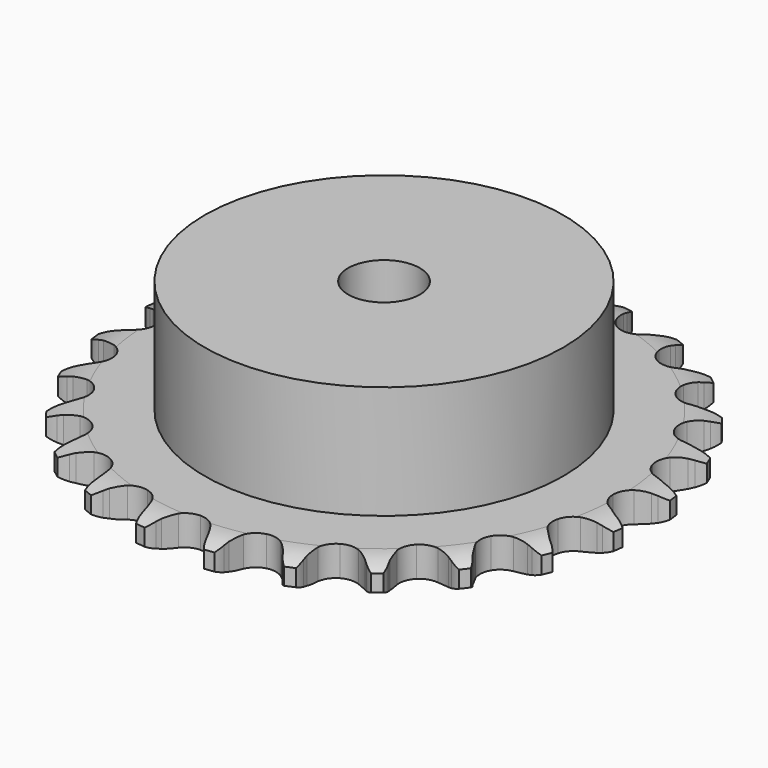
from build123d import *

# Parameters (mm, degrees)
PAD_DEPTH         = 5.9
SKETCH001_R       = 35
PAD001_DEPTH      = 28
SKETCH002_R       = 7
POCKET_DEPTH      = 0.001
POCKET_DEPTH_BACK = 28.001


with BuildPart() as part:
    # Sprocket → Pad (new body)
    with BuildSketch(Plane.XY):
        with BuildLine():
            ThreePointArc((-6.880361, 52.261529), (-5.693033, 51.063167), (-4.863176, 49.594441))
            Line((-4.863176, 49.594441), (-4.486878, 48.655213))
            ThreePointArc((-4.486878, 48.655213), (-3.885516, 47.408459), (-3.119842, 46.255301))
            ThreePointArc((-3.119842, 46.255301), (-1.739289, 45.12231), (0, 44.716765))
            ThreePointArc((0, 44.716765), (1.739289, 45.12231), (3.119842, 46.255301))
            ThreePointArc((3.119842, 46.255301), (3.885516, 47.408459), (4.486878, 48.655213))
            Line((4.486878, 48.655213), (4.863176, 49.594441))
            ThreePointArc((4.863176, 49.594441), (5.693033, 51.063167), (6.880361, 52.261529))
            ThreePointArc((6.880361, 52.261529), (7.717073, 50.796697), (8.138518, 49.163234))
            Line((8.138518, 49.163234), (8.258904, 48.158616))
            ThreePointArc((8.258904, 48.158616), (8.517092, 46.798701), (8.958217, 45.486664))
            ThreePointArc((8.958217, 45.486664), (9.998489, 44.034966), (11.57355, 43.193078))
            ThreePointArc((11.57355, 43.193078), (13.358538, 43.134643), (14.985289, 43.871715))
            Line((14.985289, 43.871715), (16.926887, 45.836037))
            ThreePointArc((16.926887, 45.836037), (17.220055, 46.248529), (17.533454, 46.645869))
            ThreePointArc((17.533454, 46.645869), (18.715168, 47.849766), (20.172197, 48.699992))
            ThreePointArc((20.172197, 48.699992), (20.601272, 47.068516), (20.585586, 45.381634))
            Line((20.585586, 45.381634), (20.441856, 44.380089))
            ThreePointArc((20.441856, 44.380089), (20.339274, 42.999688), (20.425788, 41.618186))
            ThreePointArc((20.425788, 41.618186), (21.054886, 39.946711), (22.358382, 38.725854))
            ThreePointArc((22.358382, 38.725854), (24.067424, 38.207422), (25.829513, 38.498344))
            Line((25.829513, 38.498344), (28.213357, 39.893211))
            ThreePointArc((28.213357, 39.893211), (28.603296, 40.21577), (29.008855, 40.518457))
            ThreePointArc((29.008855, 40.518457), (30.461895, 41.375483), (32.089332, 41.819631))
            ThreePointArc((32.089332, 41.819631), (32.081529, 40.132694), (31.62978, 38.50735))
            Line((31.62978, 38.50735), (31.231729, 37.577133))
            ThreePointArc((31.231729, 37.577133), (30.775369, 36.270317), (30.501375, 34.913498))
            ThreePointArc((30.501375, 34.913498), (30.676428, 33.136155), (31.619527, 31.619527))
            ThreePointArc((31.619527, 31.619527), (33.136155, 30.676428), (34.913498, 30.501375))
            Line((34.913498, 30.501375), (37.577133, 31.231729))
            ThreePointArc((37.577133, 31.231729), (38.03727, 31.442373), (38.50735, 31.62978))
            ThreePointArc((38.50735, 31.62978), (40.132694, 32.081529), (41.819631, 32.089332))
            ThreePointArc((41.819631, 32.089332), (41.375483, 30.461895), (40.518457, 29.008855))
            Line((40.518457, 29.008855), (39.893211, 28.213357))
            ThreePointArc((39.893211, 28.213357), (39.114172, 27.069185), (38.498344, 25.829513))
            ThreePointArc((38.498344, 25.829513), (38.207422, 24.067424), (38.725854, 22.358382))
            ThreePointArc((38.725854, 22.358382), (39.946711, 21.054886), (41.618186, 20.425788))
            Line((41.618186, 20.425788), (44.380089, 20.441856))
            ThreePointArc((44.380089, 20.441856), (44.879066, 20.52623), (45.381634, 20.585586))
            ThreePointArc((45.381634, 20.585586), (47.068516, 20.601272), (48.699992, 20.172197))
            ThreePointArc((48.699992, 20.172197), (47.849766, 18.715168), (46.645869, 17.533454))
            Line((46.645869, 17.533454), (45.836037, 16.926887))
            ThreePointArc((45.836037, 16.926887), (44.78741, 16.023332), (43.871715, 14.985289))
            ThreePointArc((43.871715, 14.985289), (43.134643, 13.358538), (43.193078, 11.57355))
            ThreePointArc((43.193078, 11.57355), (44.034966, 9.998489), (45.486664, 8.958217))
            Line((45.486664, 8.958217), (48.158616, 8.258904))
            ThreePointArc((48.158616, 8.258904), (48.662428, 8.211259), (49.163234, 8.138518))
            ThreePointArc((49.163234, 8.138518), (50.796697, 7.717073), (52.261529, 6.880361))
            ThreePointArc((52.261529, 6.880361), (51.063167, 5.693033), (49.594441, 4.863176))
            Line((49.594441, 4.863176), (48.655213, 4.486878))
            ThreePointArc((48.655213, 4.486878), (47.408459, 3.885516), (46.255301, 3.119842))
            ThreePointArc((46.255301, 3.119842), (45.12231, 1.739289), (44.716765, 0))
            ThreePointArc((44.716765, 0), (45.12231, -1.739289), (46.255301, -3.119842))
            Line((46.255301, -3.119842), (48.655213, -4.486878))
            ThreePointArc((48.655213, -4.486878), (49.129527, -4.663296), (49.594441, -4.863176))
            ThreePointArc((49.594441, -4.863176), (51.063167, -5.693033), (52.261529, -6.880361))
            ThreePointArc((52.261529, -6.880361), (50.796697, -7.717073), (49.163234, -8.138518))
            Line((49.163234, -8.138518), (48.158616, -8.258904))
            ThreePointArc((48.158616, -8.258904), (46.798701, -8.517092), (45.486664, -8.958217))
            ThreePointArc((45.486664, -8.958217), (44.034966, -9.998489), (43.193078, -11.57355))
            ThreePointArc((43.193078, -11.57355), (43.134643, -13.358538), (43.871715, -14.985289))
            Line((43.871715, -14.985289), (45.836037, -16.926887))
            ThreePointArc((45.836037, -16.926887), (46.248529, -17.220055), (46.645869, -17.533454))
            ThreePointArc((46.645869, -17.533454), (47.849766, -18.715168), (48.699992, -20.172197))
            ThreePointArc((48.699992, -20.172197), (47.068516, -20.601272), (45.381634, -20.585586))
            Line((45.381634, -20.585586), (44.380089, -20.441856))
            ThreePointArc((44.380089, -20.441856), (42.999688, -20.339274), (41.618186, -20.425788))
            ThreePointArc((41.618186, -20.425788), (39.946711, -21.054886), (38.725854, -22.358382))
            ThreePointArc((38.725854, -22.358382), (38.207422, -24.067424), (38.498344, -25.829513))
            Line((38.498344, -25.829513), (39.893211, -28.213357))
            ThreePointArc((39.893211, -28.213357), (40.21577, -28.603296), (40.518457, -29.008855))
            ThreePointArc((40.518457, -29.008855), (41.375483, -30.461895), (41.819631, -32.089332))
            ThreePointArc((41.819631, -32.089332), (40.132694, -32.081529), (38.50735, -31.62978))
            Line((38.50735, -31.62978), (37.577133, -31.231729))
            ThreePointArc((37.577133, -31.231729), (36.270317, -30.775369), (34.913498, -30.501375))
            ThreePointArc((34.913498, -30.501375), (33.136155, -30.676428), (31.619527, -31.619527))
            ThreePointArc((31.619527, -31.619527), (30.676428, -33.136155), (30.501375, -34.913498))
            Line((30.501375, -34.913498), (31.231729, -37.577133))
            ThreePointArc((31.231729, -37.577133), (31.442373, -38.03727), (31.62978, -38.50735))
            ThreePointArc((31.62978, -38.50735), (32.081529, -40.132694), (32.089332, -41.819631))
            ThreePointArc((32.089332, -41.819631), (30.461895, -41.375483), (29.008855, -40.518457))
            Line((29.008855, -40.518457), (28.213357, -39.893211))
            ThreePointArc((28.213357, -39.893211), (27.069185, -39.114172), (25.829513, -38.498344))
            ThreePointArc((25.829513, -38.498344), (24.067424, -38.207422), (22.358382, -38.725854))
            ThreePointArc((22.358382, -38.725854), (21.054886, -39.946711), (20.425788, -41.618186))
            Line((20.425788, -41.618186), (20.441856, -44.380089))
            ThreePointArc((20.441856, -44.380089), (20.52623, -44.879066), (20.585586, -45.381634))
            ThreePointArc((20.585586, -45.381634), (20.601272, -47.068516), (20.172197, -48.699992))
            ThreePointArc((20.172197, -48.699992), (18.715168, -47.849766), (17.533454, -46.645869))
            Line((17.533454, -46.645869), (16.926887, -45.836037))
            ThreePointArc((16.926887, -45.836037), (16.023332, -44.78741), (14.985289, -43.871715))
            ThreePointArc((14.985289, -43.871715), (13.358538, -43.134643), (11.57355, -43.193078))
            ThreePointArc((11.57355, -43.193078), (9.998489, -44.034966), (8.958217, -45.486664))
            Line((8.958217, -45.486664), (8.258904, -48.158616))
            ThreePointArc((8.258904, -48.158616), (8.211259, -48.662428), (8.138518, -49.163234))
            ThreePointArc((8.138518, -49.163234), (7.717073, -50.796697), (6.880361, -52.261529))
            ThreePointArc((6.880361, -52.261529), (5.693033, -51.063167), (4.863176, -49.594441))
            Line((4.863176, -49.594441), (4.486878, -48.655213))
            ThreePointArc((4.486878, -48.655213), (3.885516, -47.408459), (3.119842, -46.255301))
            ThreePointArc((3.119842, -46.255301), (1.739289, -45.12231), (0, -44.716765))
            ThreePointArc((0, -44.716765), (-1.739289, -45.12231), (-3.119842, -46.255301))
            Line((-3.119842, -46.255301), (-4.486878, -48.655213))
            ThreePointArc((-4.486878, -48.655213), (-4.663296, -49.129527), (-4.863176, -49.594441))
            ThreePointArc((-4.863176, -49.594441), (-5.693033, -51.063167), (-6.880361, -52.261529))
            ThreePointArc((-6.880361, -52.261529), (-7.717073, -50.796697), (-8.138518, -49.163234))
            Line((-8.138518, -49.163234), (-8.258904, -48.158616))
            ThreePointArc((-8.258904, -48.158616), (-8.517092, -46.798701), (-8.958217, -45.486664))
            ThreePointArc((-8.958217, -45.486664), (-9.998489, -44.034966), (-11.57355, -43.193078))
            ThreePointArc((-11.57355, -43.193078), (-13.358538, -43.134643), (-14.985289, -43.871715))
            Line((-14.985289, -43.871715), (-16.926887, -45.836037))
            ThreePointArc((-16.926887, -45.836037), (-17.220055, -46.248529), (-17.533454, -46.645869))
            ThreePointArc((-17.533454, -46.645869), (-18.715168, -47.849766), (-20.172197, -48.699992))
            ThreePointArc((-20.172197, -48.699992), (-20.601272, -47.068516), (-20.585586, -45.381634))
            Line((-20.585586, -45.381634), (-20.441856, -44.380089))
            ThreePointArc((-20.441856, -44.380089), (-20.339274, -42.999688), (-20.425788, -41.618186))
            ThreePointArc((-20.425788, -41.618186), (-21.054886, -39.946711), (-22.358382, -38.725854))
            ThreePointArc((-22.358382, -38.725854), (-24.067424, -38.207422), (-25.829513, -38.498344))
            Line((-25.829513, -38.498344), (-28.213357, -39.893211))
            ThreePointArc((-28.213357, -39.893211), (-28.603296, -40.21577), (-29.008855, -40.518457))
            ThreePointArc((-29.008855, -40.518457), (-30.461895, -41.375483), (-32.089332, -41.819631))
            ThreePointArc((-32.089332, -41.819631), (-32.081529, -40.132694), (-31.62978, -38.50735))
            Line((-31.62978, -38.50735), (-31.231729, -37.577133))
            ThreePointArc((-31.231729, -37.577133), (-30.775369, -36.270317), (-30.501375, -34.913498))
            ThreePointArc((-30.501375, -34.913498), (-30.676428, -33.136155), (-31.619527, -31.619527))
            ThreePointArc((-31.619527, -31.619527), (-33.136155, -30.676428), (-34.913498, -30.501375))
            Line((-34.913498, -30.501375), (-37.577133, -31.231729))
            ThreePointArc((-37.577133, -31.231729), (-38.03727, -31.442373), (-38.50735, -31.62978))
            ThreePointArc((-38.50735, -31.62978), (-40.132694, -32.081529), (-41.819631, -32.089332))
            ThreePointArc((-41.819631, -32.089332), (-41.375483, -30.461895), (-40.518457, -29.008855))
            Line((-40.518457, -29.008855), (-39.893211, -28.213357))
            ThreePointArc((-39.893211, -28.213357), (-39.114172, -27.069185), (-38.498344, -25.829513))
            ThreePointArc((-38.498344, -25.829513), (-38.207422, -24.067424), (-38.725854, -22.358382))
            ThreePointArc((-38.725854, -22.358382), (-39.946711, -21.054886), (-41.618186, -20.425788))
            Line((-41.618186, -20.425788), (-44.380089, -20.441856))
            ThreePointArc((-44.380089, -20.441856), (-44.879066, -20.52623), (-45.381634, -20.585586))
            ThreePointArc((-45.381634, -20.585586), (-47.068516, -20.601272), (-48.699992, -20.172197))
            ThreePointArc((-48.699992, -20.172197), (-47.849766, -18.715168), (-46.645869, -17.533454))
            Line((-46.645869, -17.533454), (-45.836037, -16.926887))
            ThreePointArc((-45.836037, -16.926887), (-44.78741, -16.023332), (-43.871715, -14.985289))
            ThreePointArc((-43.871715, -14.985289), (-43.134643, -13.358538), (-43.193078, -11.57355))
            ThreePointArc((-43.193078, -11.57355), (-44.034966, -9.998489), (-45.486664, -8.958217))
            Line((-45.486664, -8.958217), (-48.158616, -8.258904))
            ThreePointArc((-48.158616, -8.258904), (-48.662428, -8.211259), (-49.163234, -8.138518))
            ThreePointArc((-49.163234, -8.138518), (-50.796697, -7.717073), (-52.261529, -6.880361))
            ThreePointArc((-52.261529, -6.880361), (-51.063167, -5.693033), (-49.594441, -4.863176))
            Line((-49.594441, -4.863176), (-48.655213, -4.486878))
            ThreePointArc((-48.655213, -4.486878), (-47.408459, -3.885516), (-46.255301, -3.119842))
            ThreePointArc((-46.255301, -3.119842), (-45.12231, -1.739289), (-44.716765, 0))
            ThreePointArc((-44.716765, 0), (-45.12231, 1.739289), (-46.255301, 3.119842))
            Line((-46.255301, 3.119842), (-48.655213, 4.486878))
            ThreePointArc((-48.655213, 4.486878), (-49.129527, 4.663296), (-49.594441, 4.863176))
            ThreePointArc((-49.594441, 4.863176), (-51.063167, 5.693033), (-52.261529, 6.880361))
            ThreePointArc((-52.261529, 6.880361), (-50.796697, 7.717073), (-49.163234, 8.138518))
            Line((-49.163234, 8.138518), (-48.158616, 8.258904))
            ThreePointArc((-48.158616, 8.258904), (-46.798701, 8.517092), (-45.486664, 8.958217))
            ThreePointArc((-45.486664, 8.958217), (-44.034966, 9.998489), (-43.193078, 11.57355))
            ThreePointArc((-43.193078, 11.57355), (-43.134643, 13.358538), (-43.871715, 14.985289))
            Line((-43.871715, 14.985289), (-45.836037, 16.926887))
            ThreePointArc((-45.836037, 16.926887), (-46.248529, 17.220055), (-46.645869, 17.533454))
            ThreePointArc((-46.645869, 17.533454), (-47.849766, 18.715168), (-48.699992, 20.172197))
            ThreePointArc((-48.699992, 20.172197), (-47.068516, 20.601272), (-45.381634, 20.585586))
            Line((-45.381634, 20.585586), (-44.380089, 20.441856))
            ThreePointArc((-44.380089, 20.441856), (-42.999688, 20.339274), (-41.618186, 20.425788))
            ThreePointArc((-41.618186, 20.425788), (-39.946711, 21.054886), (-38.725854, 22.358382))
            ThreePointArc((-38.725854, 22.358382), (-38.207422, 24.067424), (-38.498344, 25.829513))
            Line((-38.498344, 25.829513), (-39.893211, 28.213357))
            ThreePointArc((-39.893211, 28.213357), (-40.21577, 28.603296), (-40.518457, 29.008855))
            ThreePointArc((-40.518457, 29.008855), (-41.375483, 30.461895), (-41.819631, 32.089332))
            ThreePointArc((-41.819631, 32.089332), (-40.132694, 32.081529), (-38.50735, 31.62978))
            Line((-38.50735, 31.62978), (-37.577133, 31.231729))
            ThreePointArc((-37.577133, 31.231729), (-36.270317, 30.775369), (-34.913498, 30.501375))
            ThreePointArc((-34.913498, 30.501375), (-33.136155, 30.676428), (-31.619527, 31.619527))
            ThreePointArc((-31.619527, 31.619527), (-30.676428, 33.136155), (-30.501375, 34.913498))
            Line((-30.501375, 34.913498), (-31.231729, 37.577133))
            ThreePointArc((-31.231729, 37.577133), (-31.442373, 38.03727), (-31.62978, 38.50735))
            ThreePointArc((-31.62978, 38.50735), (-32.081529, 40.132694), (-32.089332, 41.819631))
            ThreePointArc((-32.089332, 41.819631), (-30.461895, 41.375483), (-29.008855, 40.518457))
            Line((-29.008855, 40.518457), (-28.213357, 39.893211))
            ThreePointArc((-28.213357, 39.893211), (-27.069185, 39.114172), (-25.829513, 38.498344))
            ThreePointArc((-25.829513, 38.498344), (-24.067424, 38.207422), (-22.358382, 38.725854))
            ThreePointArc((-22.358382, 38.725854), (-21.054886, 39.946711), (-20.425788, 41.618186))
            Line((-20.425788, 41.618186), (-20.441856, 44.380089))
            ThreePointArc((-20.441856, 44.380089), (-20.52623, 44.879066), (-20.585586, 45.381634))
            ThreePointArc((-20.585586, 45.381634), (-20.601272, 47.068516), (-20.172197, 48.699992))
            ThreePointArc((-20.172197, 48.699992), (-18.715168, 47.849766), (-17.533454, 46.645869))
            Line((-17.533454, 46.645869), (-16.926887, 45.836037))
            ThreePointArc((-16.926887, 45.836037), (-16.023332, 44.78741), (-14.985289, 43.871715))
            ThreePointArc((-14.985289, 43.871715), (-13.358538, 43.134643), (-11.57355, 43.193078))
            ThreePointArc((-11.57355, 43.193078), (-9.998489, 44.034966), (-8.958217, 45.486664))
            Line((-8.958217, 45.486664), (-8.258904, 48.158616))
            ThreePointArc((-8.258904, 48.158616), (-8.211259, 48.662428), (-8.138518, 49.163234))
            ThreePointArc((-8.138518, 49.163234), (-7.717073, 50.796697), (-6.880361, 52.261529))
        make_face()
    extrude(amount=PAD_DEPTH)

    # Sketch → Groove (revolve, cut)
    with BuildSketch(Plane.XZ):
        with BuildLine():
            Line((45.833431, 0), (51.5, 0))
            Line((57.166569, 0), (51.5, 0))
            Line((57.166569, 5.9), (57.166569, 0))
            Line((51.5, 5.9), (57.166569, 5.9))
            Line((45.833431, 5.9), (51.5, 5.9))
            ThreePointArc((51.5, 4.6), (48.74032, 5.570833), (45.833431, 5.9))
            Line((51.5, 1.3), (51.5, 4.6))
            ThreePointArc((45.833431, 0), (48.74032, 0.329167), (51.5, 1.3))
        make_face()
    revolve(axis=Axis((0, 0, 0), (0, 0, 1)), mode=Mode.SUBTRACT)

    # Sketch001 → Pad001 (join)
    with BuildSketch(Plane.XY):
        Circle(SKETCH001_R)
    extrude(amount=PAD001_DEPTH)

    # Sketch002 → Pocket (cut, two sides)
    with BuildSketch(Plane.XY) as pocket_sk:
        Circle(SKETCH002_R)
    extrude(amount=-POCKET_DEPTH, mode=Mode.SUBTRACT)
    extrude(pocket_sk.sketch, amount=POCKET_DEPTH_BACK, mode=Mode.SUBTRACT)


solid = part.part
